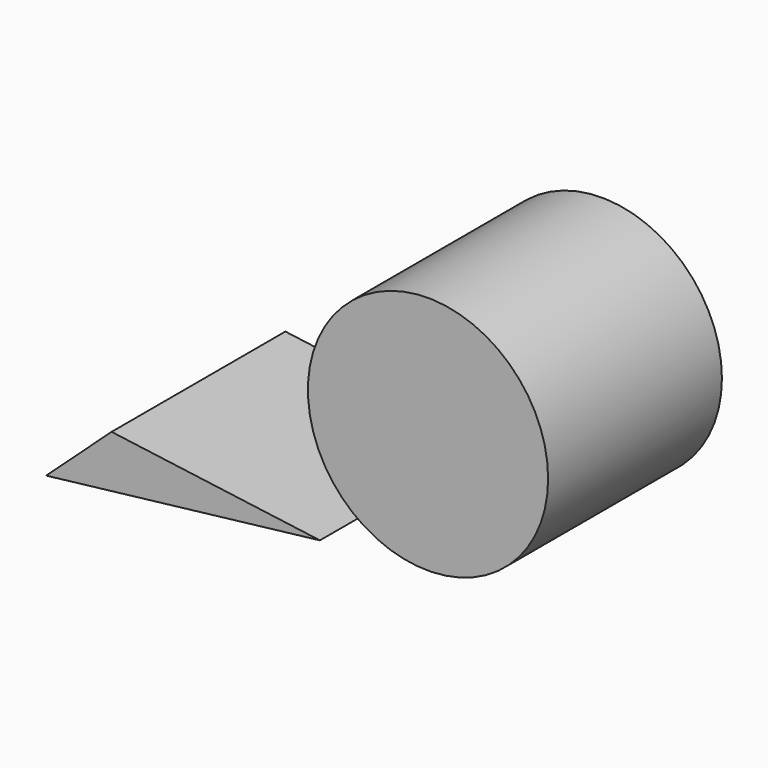
from build123d import *

# Parameters (mm, degrees)
F0_R     = 50.953394
F1_DEPTH = 92.175104


with BuildPart() as f1:
    # F0 (on Front) → F1 (new body)
    with BuildSketch(Plane.XZ):
        Polygon((88.395789, -43.496046), (0, -31.704053), (-27.789578, -57.081595), align=None)
        with Locations((134.256333, 11.059966)):
            Circle(F0_R)
    extrude(amount=F1_DEPTH)


solid = f1.part
